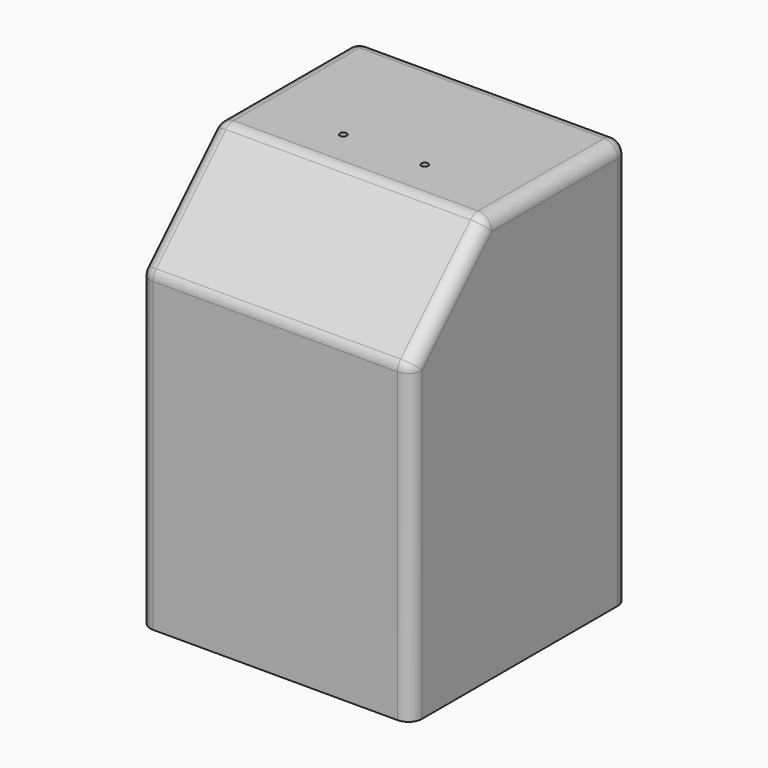
from build123d import *

# Parameters (mm, degrees)
F0_W     = 50.8
F0_H     = 50.8
F1_DEPTH = 38.1
F2_R     = 0.635
F3_DEPTH = 1.27
F5_DEPTH = 50.801
F6_R     = 2.54


with BuildPart() as f1:
    # F0 (on Top) → F1 (new body, symmetric)
    with BuildSketch(Plane.XY):
        Rectangle(F0_W, F0_H)
    extrude(amount=F1_DEPTH, both=True)

    # F2 (on face) → F3 (cut)
    with BuildSketch(Plane.XY.offset(38.1)):
        with Locations((-7.62, 0)):
            Circle(F2_R)
        with Locations((7.62, 0)):
            Circle(F2_R)
    extrude(amount=-F3_DEPTH, mode=Mode.SUBTRACT)

    # F4 (on face) → F5 (cut, through all)
    with BuildSketch(Plane.YZ.offset(25.4)):
        Polygon((-25.4, 38.1), (-25.4, 20.32), (-7.62, 38.1), align=None)
    extrude(amount=-F5_DEPTH, mode=Mode.SUBTRACT)

    # F6
    f6_edges = [f1.edges().sort_by_distance(p)[0] for p in [
        (0, -7.62, 38.1),
        (0, -25.4, 20.32),
        (25.4, -16.51, 29.21),
        (25.4, 8.89, 38.1),
        (0, 25.4, 38.1),
        (25.4, 25.4, 0),
        (-25.4, 8.89, 38.1),
        (-25.4, -16.51, 29.21),
        (25.4, -25.4, -8.89),
        (-25.4, -25.4, -8.89),
        (-25.4, 25.4, 0),
    ]]
    fillet(f6_edges, radius=F6_R)


solid = f1.part
